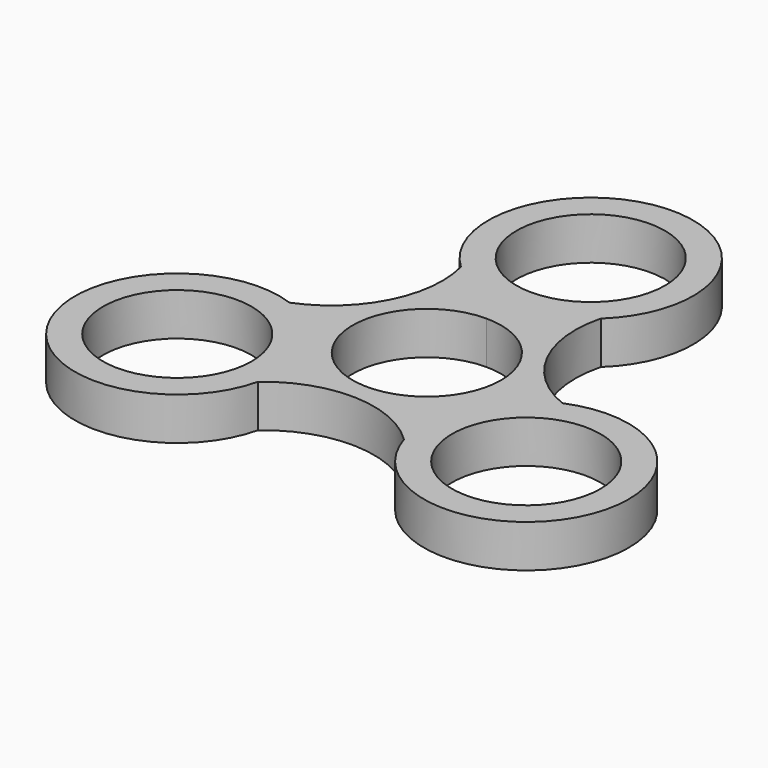
from build123d import *

# Parameters (mm, degrees)
F0_R     = 11.049
F1_DEPTH = 6.35


with BuildPart() as f1:
    # F0 (on Top) → F1 (new body)
    with BuildSketch(Plane.XY):
        with BuildLine():
            ThreePointArc((0, 11.049), (-7.812823, -7.812823), (11.049, 0))
            ThreePointArc((11.049, 0), (7.812823, 7.812823), (0, 11.049))
        make_face()
        with BuildLine():
            ThreePointArc((20.211329, -0.067656), (11.66007, 7.7956), (10.404818, 19.344589))
            ThreePointArc((10.404818, 19.344589), (0, 45.72), (-10.404818, 19.344589))
            ThreePointArc((-10.404818, 19.344589), (-11.688945, 7.738716), (-20.329806, -0.114995))
            ThreePointArc((-20.329806, -0.114995), (-39.015355, -21.622645), (-10.761059, -17.95883))
            ThreePointArc((-10.761059, -17.95883), (0.534724, -13.978662), (11.549127, -18.681789))
            ThreePointArc((11.549127, -18.681789), (39.909758, -20.557013), (20.211329, -0.067656))
        make_face()
        with Locations((-25.584593, -14.420407)):
            Circle(F0_R, mode=Mode.SUBTRACT)
        with BuildLine():
            ThreePointArc((0, 11.049), (7.812823, 7.812823), (11.049, 0))
            ThreePointArc((11.049, 0), (-7.812823, -7.812823), (0, 11.049))
        make_face(mode=Mode.SUBTRACT)
        with Locations((26.092596, -14.127111)):
            Circle(F0_R, mode=Mode.SUBTRACT)
        with BuildLine():
            ThreePointArc((0, 19.431), (-7.812823, 38.292823), (11.049, 30.48))
            ThreePointArc((11.049, 30.48), (7.812823, 22.667177), (0, 19.431))
        make_face(mode=Mode.SUBTRACT)
    extrude(amount=-F1_DEPTH)


solid = f1.part
